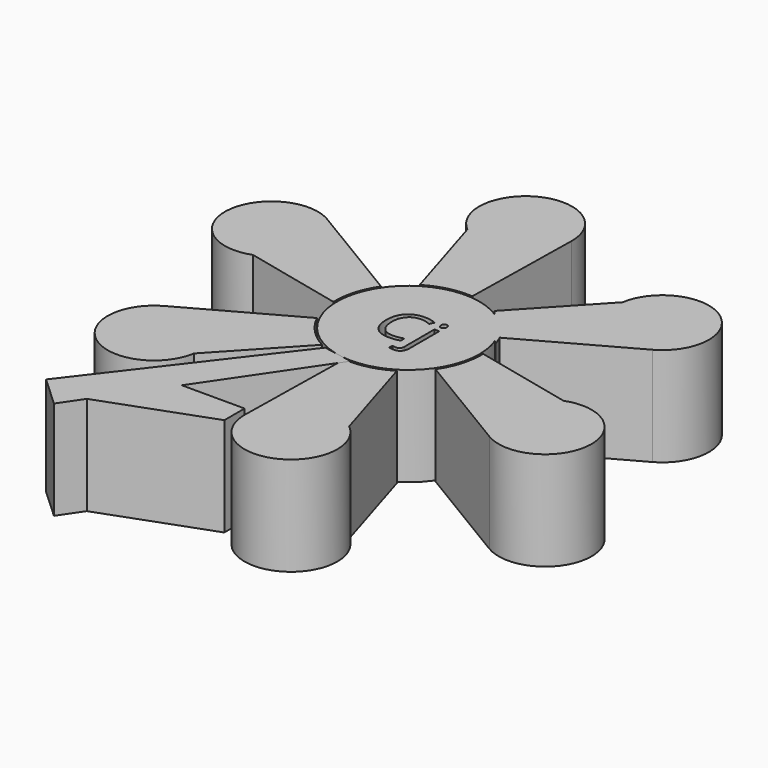
from build123d import *

# Parameters (mm, degrees)
F1_DEPTH = 25.4
F2_R     = 18.2943509446
F3_DEPTH = 25.4
F5_DEPTH = 25.4


with BuildPart() as f1:
    # F0 (on Top) → F1 (new body)
    with BuildSketch(Plane.XY):
        with BuildLine():
            ThreePointArc((8.9210946377, 16.5574376809), (13.6147673533, 12.9758538065), (16.9667911656, 8.1155819035))
            Line((16.9667911656, 8.1155819035), (44.1781841218, 23.1683626771))
            ThreePointArc((44.1781841218, 23.1683626771), (45.2775218946, 43.3683275222), (26.6220346093, 35.5440117419))
            Line((26.6220346093, 35.5440117419), (8.9210946377, 16.5574376809))
        make_face()
        with BuildLine():
            Line((8.9210946377, 16.5574376809), (18.0044832363, 5.4381297783))
            ThreePointArc((18.0044832363, 5.4381297783), (17.5368097382, 6.7966886273), (16.9667911656, 8.1155819035))
            ThreePointArc((16.9667911656, 8.1155819035), (13.6147673533, 12.9758538065), (8.9210946377, 16.5574376809))
        make_face()
    extrude(amount=F1_DEPTH)

    # F2 (on Top) → F3 (join)
    with BuildSketch(Plane.XY):
        Circle(F2_R)
        with BuildLine():
            add(Edge.make_bspline(
                [(2.1898622284, 3.9251737702), (0.93686252, 4.5118383735), (-0.3161371884, 4.5118383735)],
                knots=[0, 0, 0, 1, 1, 1], degree=2))
            add(Edge.make_bspline(
                [(-0.3161371884, 4.5118383735), (-2.1340731816, 4.5118383735), (-3.1866895069, 3.3010881736)],
                knots=[0, 0, 0, 1, 1, 1], degree=2))
            add(Edge.make_bspline(
                [(-3.1866895069, 3.3010881736), (-4.2393058323, 2.0903379736), (-4.2393058323, -0.0148946771)],
                knots=[0, 0, 0, 1, 1, 1], degree=2))
            add(Edge.make_bspline(
                [(-4.2393058323, -0.0148946771), (-4.2393058323, -2.1780695109), (-3.2241105002, -3.3598486193)],
                knots=[0, 0, 0, 1, 1, 1], degree=2))
            add(Edge.make_bspline(
                [(-3.2241105002, -3.3598486193), (-2.208915168, -4.5416277277), (-0.3306227342, -4.5416277277)],
                knots=[0, 0, 0, 1, 1, 1], degree=2))
            add(Edge.make_bspline(
                [(-0.3306227342, -4.5416277277), (0.8233924115, -4.5416277277), (2.3033323369, -4.1263754159)],
                knots=[0, 0, 0, 1, 1, 1], degree=2))
            Line((2.3033323369, -4.1263754159), (2.3033323369, -5.2490052124))
            add(Edge.make_bspline(
                [(2.3033323369, -5.2490052124), (1.156559964, -5.6811573277), (-0.526177602, -5.6811573277)],
                knots=[0, 0, 0, 1, 1, 1], degree=2))
            add(Edge.make_bspline(
                [(-0.526177602, -5.6811573277), (-2.9621635476, -5.6811573277), (-4.286383856, -4.2012174023)],
                knots=[0, 0, 0, 1, 1, 1], degree=2))
            add(Edge.make_bspline(
                [(-4.286383856, -4.2012174023), (-5.6106041645, -2.721277477), (-5.6106041645, 0.0020051263)],
                knots=[0, 0, 0, 1, 1, 1], degree=2))
            add(Edge.make_bspline(
                [(-5.6106041645, 0.0020051263), (-5.6106041645, 1.7064710109), (-4.9732401509, 2.9884418109)],
                knots=[0, 0, 0, 1, 1, 1], degree=2))
            add(Edge.make_bspline(
                [(-4.9732401509, 2.9884418109), (-4.3358761374, 4.2704126108), (-3.1323687103, 4.9645116786)],
                knots=[0, 0, 0, 1, 1, 1], degree=2))
            add(Edge.make_bspline(
                [(-3.1323687103, 4.9645116786), (-1.9288612833, 5.6586107463), (-0.2992373851, 5.6586107463)],
                knots=[0, 0, 0, 1, 1, 1], degree=2))
            add(Edge.make_bspline(
                [(-0.2992373851, 5.6586107463), (1.4341995911, 5.6586107463), (2.7330701945, 5.0260752481)],
                knots=[0, 0, 0, 1, 1, 1], degree=2))
            Line((2.7330701945, 5.0260752481), (2.1898622284, 3.9251737702))
        make_face(mode=Mode.SUBTRACT)
        with BuildLine():
            add(Edge.make_bspline(
                [(5.7750348045, -6.7965443513), (5.7750348045, -9.2421873275), (3.5177039232, -9.2421873275)],
                knots=[0, 0, 0, 1, 1, 1], degree=2))
            add(Edge.make_bspline(
                [(3.5177039232, -9.2421873275), (2.800669408, -9.2421873275), (2.3564460046, -9.051460975)],
                knots=[0, 0, 0, 1, 1, 1], degree=2))
            Line((2.3564460046, -9.051460975), (2.3564460046, -8.035058514))
            add(Edge.make_bspline(
                [(2.3564460046, -8.035058514), (2.8779256521, -8.1847424869), (3.3825054961, -8.1847424869)],
                knots=[0, 0, 0, 1, 1, 1], degree=2))
            add(Edge.make_bspline(
                [(3.3825054961, -8.1847424869), (3.9715843571, -8.1847424869), (4.2468097266, -7.8636462225)],
                knots=[0, 0, 0, 1, 1, 1], degree=2))
            add(Edge.make_bspline(
                [(4.2468097266, -7.8636462225), (4.5220350961, -7.5425499581), (4.5220350961, -6.8882861412)],
                knots=[0, 0, 0, 1, 1, 1], degree=2))
            Line((4.5220350961, -6.8882861412), (4.5220350961, 2.7397732753))
            Line((4.5220350961, 2.7397732753), (5.7750348045, 2.7397732753))
            Line((5.7750348045, 2.7397732753), (5.7750348045, -6.7965443513))
        make_face(mode=Mode.SUBTRACT)
        with BuildLine():
            add(Edge.make_bspline(
                [(4.6270553028, 4.3500831125), (4.4158077605, 4.5577092684), (4.4158077605, 4.9802043532)],
                knots=[0, 0, 0, 1, 1, 1], degree=2))
            add(Edge.make_bspline(
                [(4.4158077605, 4.9802043532), (4.4158077605, 5.4099422108), (4.6270553028, 5.6103255938)],
                knots=[0, 0, 0, 1, 1, 1], degree=2))
            add(Edge.make_bspline(
                [(4.6270553028, 5.6103255938), (4.8383028452, 5.8107089768), (5.156984852, 5.8107089768)],
                knots=[0, 0, 0, 1, 1, 1], degree=2))
            add(Edge.make_bspline(
                [(5.156984852, 5.8107089768), (5.4587670553, 5.8107089768), (5.6772573706, 5.6067042074)],
                knots=[0, 0, 0, 1, 1, 1], degree=2))
            add(Edge.make_bspline(
                [(5.6772573706, 5.6067042074), (5.8957476858, 5.4026994379), (5.8957476858, 4.9802043532)],
                knots=[0, 0, 0, 1, 1, 1], degree=2))
            add(Edge.make_bspline(
                [(5.8957476858, 4.9802043532), (5.8957476858, 4.5577092684), (5.6772573706, 4.3500831125)],
                knots=[0, 0, 0, 1, 1, 1], degree=2))
            add(Edge.make_bspline(
                [(5.6772573706, 4.3500831125), (5.4587670553, 4.1424569566), (5.156984852, 4.1424569566)],
                knots=[0, 0, 0, 1, 1, 1], degree=2))
            add(Edge.make_bspline(
                [(5.156984852, 4.1424569566), (4.8383028452, 4.1424569566), (4.6270553028, 4.3500831125)],
                knots=[0, 0, 0, 1, 1, 1], degree=2))
        make_face(mode=Mode.SUBTRACT)
    extrude(amount=F3_DEPTH)


with BuildPart() as f1b:
    # F0 (on Top) → F1, piece 2 (new body)
    with BuildSketch(Plane.XY):
        with BuildLine():
            ThreePointArc((-18.7997089721, -0.5528242546), (-18.0448027088, 5.3028074913), (-15.5116956778, 10.6358812184))
            Line((-15.5116956778, 10.6358812184), (-42.1534827034, 26.675248404))
            ThreePointArc((-42.1534827034, 26.675248404), (-60.1968343012, 17.52732042), (-44.0930344255, 5.2833524012))
            Line((-44.0930344255, 5.2833524012), (-18.7997089721, -0.5528242546))
        make_face()
    extrude(amount=F1_DEPTH)


with BuildPart() as f1c:
    # F0 (on Top) → F1, piece 3 (new body)
    with BuildSketch(Plane.XY):
        with BuildLine():
            Line((-26.6220346093, -35.5440117419), (-8.9210946377, -16.5574376809))
            ThreePointArc((-8.9210946377, -16.5574376809), (-13.6147673533, -12.9758538065), (-16.9667911656, -8.1155819035))
            Line((-16.9667911656, -8.1155819035), (-44.1781841218, -23.1683626771))
            ThreePointArc((-44.1781841218, -23.1683626771), (-45.2775218946, -43.3683275222), (-26.6220346093, -35.5440117419))
        make_face()
    extrude(amount=F1_DEPTH)


with BuildPart() as f1d:
    # F0 (on Top) → F1, piece 4 (new body)
    with BuildSketch(Plane.XY):
        with BuildLine():
            Line((17.4709998162, -40.827364143), (9.8786143344, -16.0046134263))
            ThreePointArc((9.8786143344, -16.0046134263), (4.4300353556, -18.2786612978), (-1.4550954879, -18.7514631219))
            Line((-1.4550954879, -18.7514631219), (-2.0247014185, -49.8436110811))
            ThreePointArc((-2.0247014185, -49.8436110811), (14.9193124066, -60.8956479422), (17.4709998162, -40.827364143))
        make_face()
    extrude(amount=F1_DEPTH)


with BuildPart() as f1e:
    # F0 (on Top) → F1, piece 5 (new body)
    with BuildSketch(Plane.XY):
        with BuildLine():
            ThreePointArc((18.7997089721, 0.5528242546), (18.8058036764, 0.2764419899), (18.8078353909, 0))
            ThreePointArc((18.8078353909, 0), (17.9649115087, -5.5674614121), (15.5116956778, -10.6358812184))
            Line((15.5116956778, -10.6358812184), (42.1534827034, -26.675248404))
            ThreePointArc((42.1534827034, -26.675248404), (60.1968343012, -17.52732042), (44.0930344255, -5.2833524012))
            Line((44.0930344255, -5.2833524012), (18.7997089721, 0.5528242546))
        make_face()
    extrude(amount=F1_DEPTH)


with BuildPart() as f1f:
    # F0 (on Top) → F1, piece 6 (new body)
    with BuildSketch(Plane.XY):
        with BuildLine():
            ThreePointArc((-9.8786143344, 16.0046134263), (-4.4300353556, 18.2786612978), (1.4550954879, 18.7514631219))
            Line((1.4550954879, 18.7514631219), (2.0247014185, 49.8436110811))
            ThreePointArc((2.0247014185, 49.8436110811), (-14.9193124066, 60.8956479422), (-17.4709998162, 40.827364143))
            Line((-17.4709998162, 40.827364143), (-9.8786143344, 16.0046134263))
        make_face()
    extrude(amount=F1_DEPTH)


with BuildPart() as f5:
    # F4 (on Top) → F5 (new body)
    with BuildSketch(Plane.XY):
        Polygon((0, -18.5634717345), (-7.6268534176, -17.1244423836), (-42.7391566336, -62.8855600953), (-34.9683985114, -70.0806975365), (-31.0942010185, -64.3730324578), (-19.8917100438, -47.8689521551), align=None)
        Polygon((-3.7568265107, -47.8689521551), (-19.8917100438, -47.8689521551), (-31.0942010185, -64.3730324578), (-3.7568265107, -54.3812550604), align=None)
    extrude(amount=F5_DEPTH)


solid = Compound([f1.part, f1b.part, f1c.part, f1d.part, f1e.part, f1f.part, f5.part])
